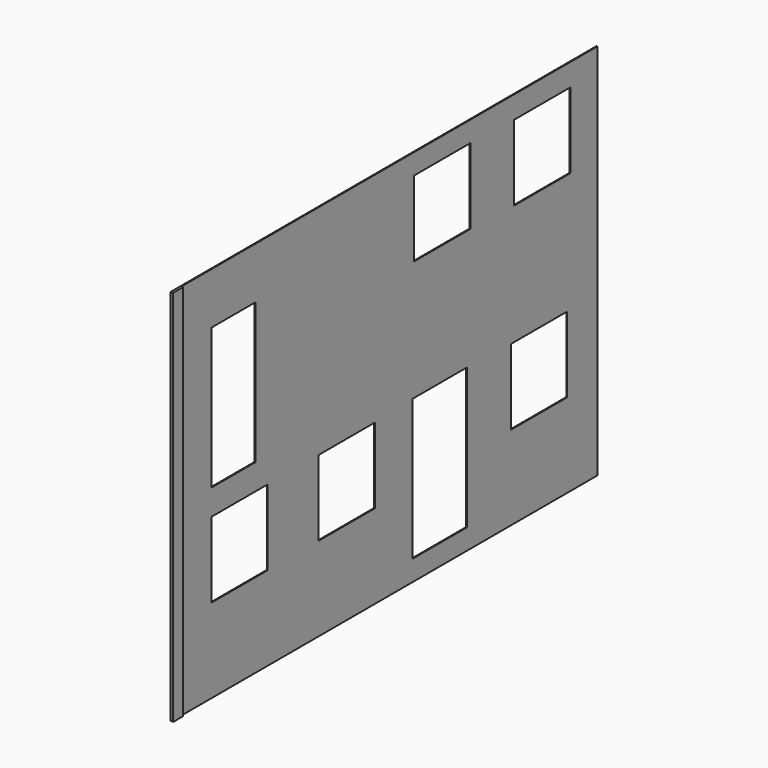
from build123d import *

# Parameters (mm, degrees)
F0_W     = 7874
F0_H     = 5588
F0_W_2   = 1041.4
F0_H_2   = 1117.6
F0_W_3   = 1003.3
F0_H_3   = 2082.8
F0_W_4   = 812.9016
F1_DEPTH = 12.7
F2_W     = 177.8
F2_H     = 5588
F3_DEPTH = 25.4


with BuildPart() as f1:
    # F0 (on Right) → F1 (new body)
    with BuildSketch(Plane.YZ):
        with Locations((3937, 2794)):
            Rectangle(F0_W, F0_H)
        with Locations((1257.3, 1803.4)):
            Rectangle(F0_W_2, F0_H_2, mode=Mode.SUBTRACT)
        with Locations((3238.5, 1803.4)):
            Rectangle(F0_W_2, F0_H_2, mode=Mode.SUBTRACT)
        with Locations((4959.35, 1346.2)):
            Rectangle(F0_W_3, F0_H_3, mode=Mode.SUBTRACT)
        with Locations((6794.5, 1803.4)):
            Rectangle(F0_W_2, F0_H_2, mode=Mode.SUBTRACT)
        with Locations((1143.0508, 3784.6)):
            Rectangle(F0_W_4, F0_H_3, mode=Mode.SUBTRACT)
        with Locations((5003.8, 4724.4)):
            Rectangle(F0_W_2, F0_H_2, mode=Mode.SUBTRACT)
        with Locations((6858, 4699)):
            Rectangle(F0_W_2, F0_H_2, mode=Mode.SUBTRACT)
    extrude(amount=F1_DEPTH)

    # F2 (on face) → F3 (join)
    with BuildSketch(Plane.YZ.offset(12.7)):
        with Locations((88.9, 2794)):
            Rectangle(F2_W, F2_H)
    extrude(amount=F3_DEPTH)


solid = f1.part
